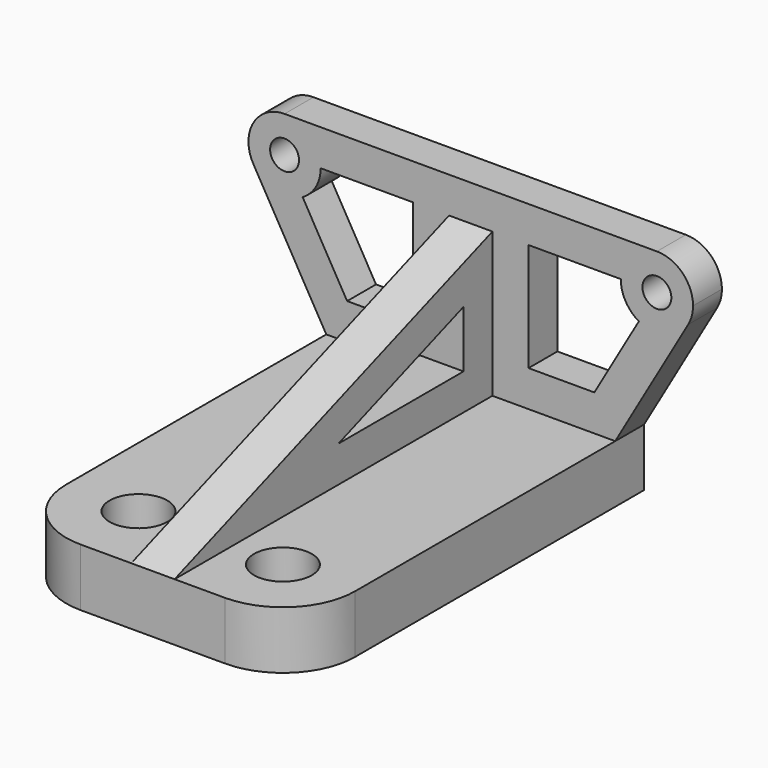
from build123d import *

# Parameters (mm, degrees)
F0_R     = 2
F1_DEPTH = 5
F2_DEPTH = 60
F4_DEPTH = 3
F5_R     = 4
F6_DEPTH = 8.001
F7_R     = 10


with BuildPart() as f1:
    # F0 (on Front) → F1 (new body)
    with BuildSketch(Plane.XZ):
        with BuildLine():
            Line((-20, 0), (-3, 0))
            Line((-3, 0), (-3, 20))
            Line((-3, 20), (0, 20))
            Line((0, 20), (3, 20))
            Line((3, 20), (3, 0))
            Line((3, 0), (20, 0))
            Line((20, 0), (30.10363, 17.5))
            ThreePointArc((30.10363, 17.5), (27.067598, 15.170371), (23.273503, 15.669873))
            Line((23.273503, 15.669873), (17.113249, 5))
            Line((17.113249, 5), (8, 5))
            Line((8, 5), (8, 20))
            Line((8, 20), (20.773503, 20))
            ThreePointArc((20.773503, 20), (22.237969, 23.535534), (25.773503, 25))
            Line((25.773503, 25), (0, 25))
            Line((0, 25), (-25.773503, 25))
            ThreePointArc((-25.773503, 25), (-22.237969, 23.535534), (-20.773503, 20))
            Line((-20.773503, 20), (-8, 20))
            Line((-8, 20), (-8, 5))
            Line((-8, 5), (-17.113249, 5))
            Line((-17.113249, 5), (-23.273503, 15.669873))
            ThreePointArc((-23.273503, 15.669873), (-27.067598, 15.170371), (-30.10363, 17.5))
            Line((-30.10363, 17.5), (-20, 0))
        make_face()
        with BuildLine():
            ThreePointArc((-25.773503, 25), (-30.10363, 22.5), (-30.10363, 17.5))
            ThreePointArc((-30.10363, 17.5), (-27.067598, 15.170371), (-23.273503, 15.669873))
            ThreePointArc((-23.273503, 15.669873), (-21.443376, 17.5), (-20.773503, 20))
            ThreePointArc((-20.773503, 20), (-22.237969, 23.535534), (-25.773503, 25))
        make_face()
        with Locations((-25.773503, 20)):
            Circle(F0_R, mode=Mode.SUBTRACT)
        with BuildLine():
            ThreePointArc((23.273503, 15.669873), (27.067598, 15.170371), (30.10363, 17.5))
            ThreePointArc((30.10363, 17.5), (30.603132, 18.705905), (30.773503, 20))
            ThreePointArc((30.773503, 20), (29.309037, 23.535534), (25.773503, 25))
            ThreePointArc((25.773503, 25), (22.237969, 23.535534), (20.773503, 20))
            ThreePointArc((20.773503, 20), (21.443376, 17.5), (23.273503, 15.669873))
        make_face()
        with Locations((25.773503, 20)):
            Circle(F0_R, mode=Mode.SUBTRACT)
    extrude(amount=F1_DEPTH)



with BuildPart() as f2:
    # F0 (on Front) → F2 (new body)
    with BuildSketch(Plane.XZ):
        Polygon((3, 0), (0, 0), (0, -8), (20, -8), (20, 0), align=None)
        Polygon((0, -8), (0, 0), (-3, 0), (-20, 0), (-20, -8), align=None)
    extrude(amount=F2_DEPTH)


with BuildPart() as f1_1:
    add(f1.part)

    add(f2.part)  # F4 merges F2
    # F3 (on Right) → F4 (join, symmetric)
    with BuildSketch(Plane.YZ):
        Polygon((0, 21.838214), (-60, 0), (0, 0), align=None)
        Polygon((-31.643591, 5), (-10, 12.877623), (-10, 5), align=None, mode=Mode.SUBTRACT)
    extrude(amount=F4_DEPTH, both=True)

    # F5 (on Top) → F6 (cut, through all)
    with BuildSketch(Plane.XY):
        with Locations((-10, -50)):
            Circle(F5_R)
        with Locations((10, -50)):
            Circle(F5_R)
    extrude(amount=-F6_DEPTH, mode=Mode.SUBTRACT)

    # F7
    f7_edges = [f1_1.edges().sort_by_distance(p)[0] for p in [
        (-20, -60, -4),
        (20, -60, -4),
    ]]
    fillet(f7_edges, radius=F7_R)


solid = f1_1.part
